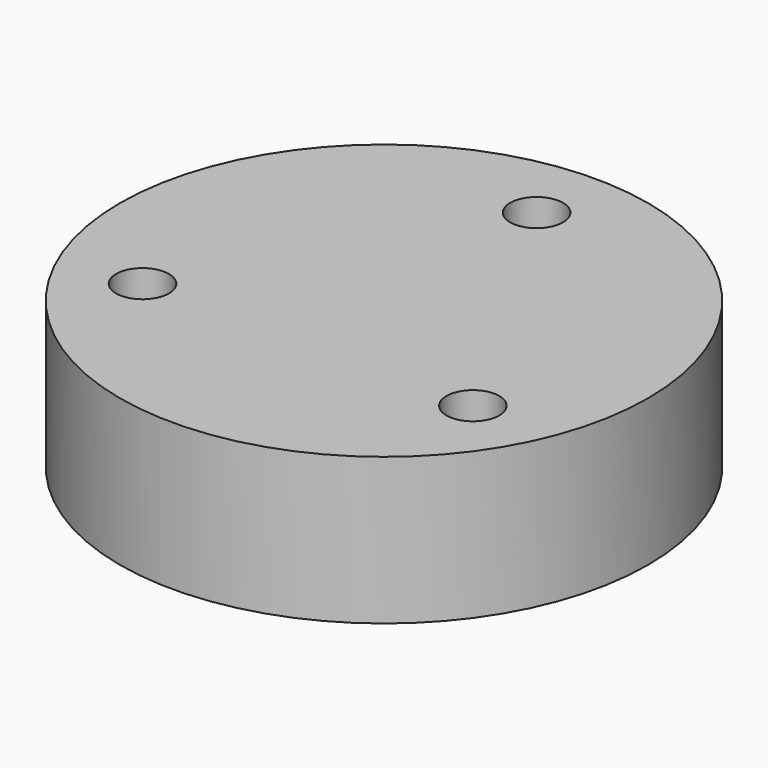
from build123d import *

# Parameters (mm, degrees)
SKETCH_R   = 18
SKETCH_R_2 = 1.8
PAD_DEPTH  = 10


with BuildPart() as part:
    # Sketch → Pad (new body)
    with BuildSketch(Plane.XY):
        Circle(SKETCH_R)
        with Locations((-11.25833, -6.5)):
            Circle(SKETCH_R_2, mode=Mode.SUBTRACT)
        with Locations((11.25833, -6.5)):
            Circle(SKETCH_R_2, mode=Mode.SUBTRACT)
        with Locations((0, 13)):
            Circle(SKETCH_R_2, mode=Mode.SUBTRACT)
    extrude(amount=PAD_DEPTH)


solid = part.part
